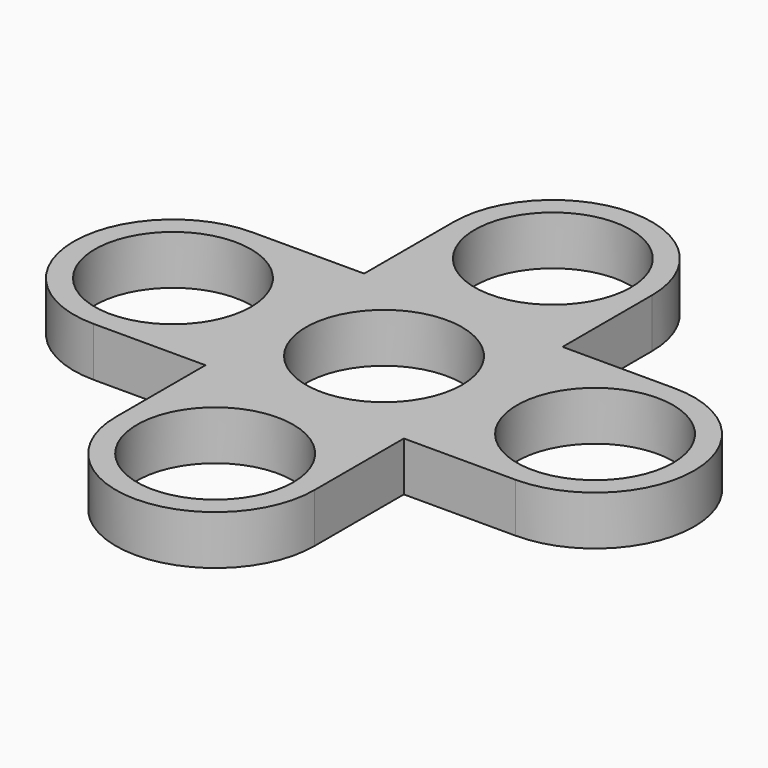
from build123d import *

# Parameters (mm, degrees)
F0_R     = 11.1
F1_DEPTH = 7


with BuildPart() as f1:
    # F0 (on Top) → F1 (new body)
    with BuildSketch(Plane.XY):
        with BuildLine():
            Line((14.1, 14.1), (14.1, 30))
            ThreePointArc((14.1, 30), (0, 44.1), (-14.1, 30))
            Line((-14.1, 30), (-14.1, 14.1))
            Line((-14.1, 14.1), (-30, 14.1))
            ThreePointArc((-30, 14.1), (-44.1, 0), (-30, -14.1))
            Line((-30, -14.1), (-14.1, -14.1))
            Line((-14.1, -14.1), (-14.1, -30))
            ThreePointArc((-14.1, -30), (0, -44.1), (14.1, -30))
            Line((14.1, -30), (14.1, -14.1))
            Line((14.1, -14.1), (30, -14.1))
            ThreePointArc((30, -14.1), (44.1, 0), (30, 14.1))
            Line((30, 14.1), (14.1, 14.1))
        make_face()
        with Locations((0, -30)):
            Circle(F0_R, mode=Mode.SUBTRACT)
        with Locations((-30, 0)):
            Circle(F0_R, mode=Mode.SUBTRACT)
        Circle(F0_R, mode=Mode.SUBTRACT)
        with Locations((30, 0)):
            Circle(F0_R, mode=Mode.SUBTRACT)
        with Locations((0, 30)):
            Circle(F0_R, mode=Mode.SUBTRACT)
    extrude(amount=F1_DEPTH)


solid = f1.part
